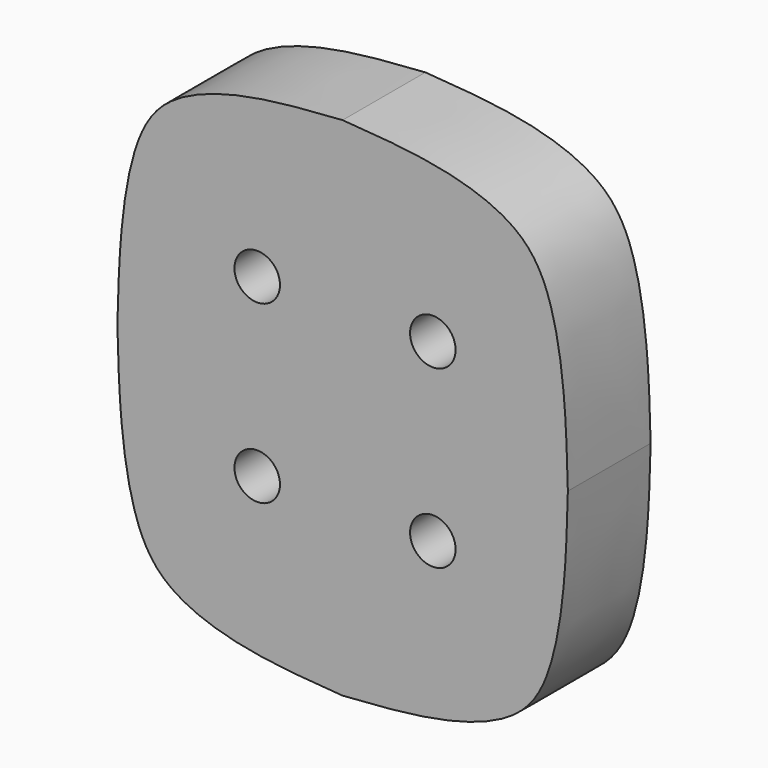
from build123d import *

# Parameters (mm, degrees)
F0_R     = 1.1
F1_DEPTH = 5


with BuildPart() as f1:
    # F0 (on Front) → F1 (new body)
    with BuildSketch(Plane.XZ):
        with BuildLine():
            add(Edge.make_bspline(
                [(0, 12.241055), (1.7366674499, 12.1203561255), (4.9726378782, 11.8954552737), (8.7874652288, 10.4524618321), (10.1775930633, 7.8255389255), (10.7726161671, 4.0613675301), (10.8462352756, 1.3742818944), (10.883887, 0)],
                knots=[0, 0, 0, 0, 0.22974122, 0.4280818381, 0.5963198284, 0.7935419908, 1, 1, 1, 1], degree=3))
            add(Edge.make_bspline(
                [(0, 12.241055), (-1.7366674499, 12.1203561255), (-4.9726378782, 11.8954552737), (-8.7874652288, 10.4524618321), (-10.1775930633, 7.8255389255), (-10.7726161671, 4.0613675301), (-10.8462352756, 1.3742818944), (-10.883887, 0)],
                knots=[0, 0, 0, 0, 0.22974122, 0.4280818381, 0.5963198284, 0.7935419908, 1, 1, 1, 1], degree=3))
            add(Edge.make_bspline(
                [(0, -12.241055), (-1.7366674499, -12.1203561255), (-4.9726378782, -11.8954552737), (-8.7874652288, -10.4524618321), (-10.1775930633, -7.8255389255), (-10.7726161671, -4.0613675301), (-10.8462352756, -1.3742818944), (-10.883887, 0)],
                knots=[0, 0, 0, 0, 0.22974122, 0.4280818381, 0.5963198284, 0.7935419908, 1, 1, 1, 1], degree=3))
            add(Edge.make_bspline(
                [(0, -12.241055), (1.7366674499, -12.1203561255), (4.9726378782, -11.8954552737), (8.7874652288, -10.4524618321), (10.1775930633, -7.8255389255), (10.7726161671, -4.0613675301), (10.8462352756, -1.3742818944), (10.883887, 0)],
                knots=[0, 0, 0, 0, 0.22974122, 0.4280818381, 0.5963198284, 0.7935419908, 1, 1, 1, 1], degree=3))
        make_face()
        with Locations((-4.126528, -4.242641)):
            Circle(F0_R, mode=Mode.SUBTRACT)
        with Locations((4.358754, -4.242641)):
            Circle(F0_R, mode=Mode.SUBTRACT)
        with Locations((-4.126528, 4.242641)):
            Circle(F0_R, mode=Mode.SUBTRACT)
        with Locations((4.358754, 4.242641)):
            Circle(F0_R, mode=Mode.SUBTRACT)
    extrude(amount=F1_DEPTH)


solid = f1.part
